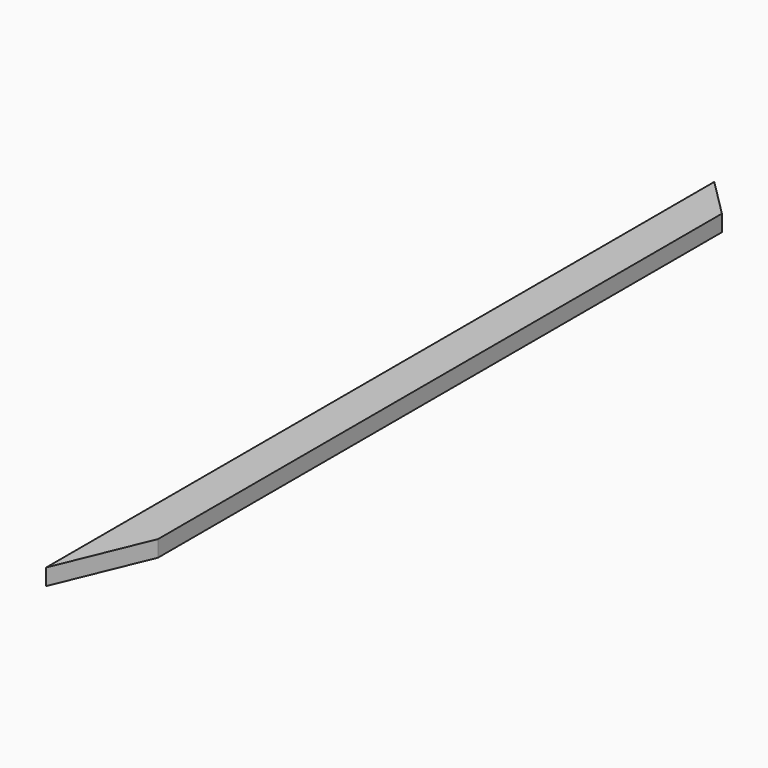
from build123d import *

# Parameters (mm, degrees)
F0_W     = 88.9
F0_H     = 38.1
F1_DEPTH = 1943.1
F3_DEPTH = 38.1
F5_DEPTH = 38.1


with BuildPart() as f1:
    # F0 (on Front) → F1 (new body)
    with BuildSketch(Plane.XZ):
        with Locations((44.45, 19.05)):
            Rectangle(F0_W, F0_H)
    extrude(amount=F1_DEPTH)

    # F2 (on face) → F3 (cut, through all)
    with BuildSketch(Plane.XY.offset(38.1)):
        Polygon((88.9, -1728.476414), (0, -1943.1), (88.9, -1943.1), align=None)
    extrude(amount=-F3_DEPTH, mode=Mode.SUBTRACT)

    # F4 (on face) → F5 (cut, through all)
    with BuildSketch(Plane.XY.offset(38.1)):
        Polygon((88.9, 0), (0, 0), (88.9, -88.9), align=None)
    extrude(amount=-F5_DEPTH, mode=Mode.SUBTRACT)


solid = f1.part
